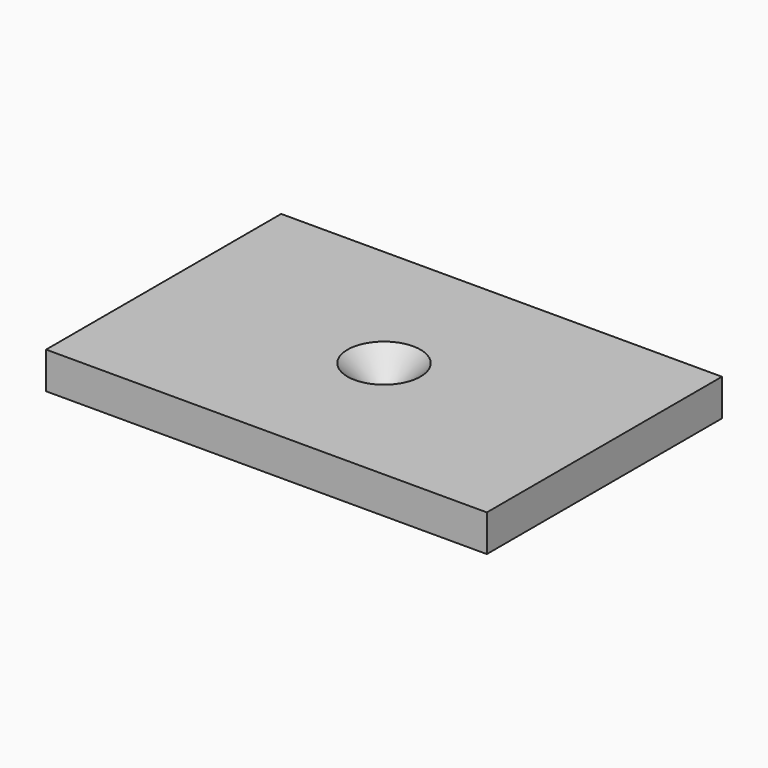
from build123d import *

# Parameters (mm, degrees)
F0_W     = 60
F0_H     = 40
F1_DEPTH = 5


with BuildPart() as f1:
    # F0 (on Top) → F1 (new body)
    with BuildSketch(Plane.XY):
        Rectangle(F0_W, F0_H)
    extrude(amount=F1_DEPTH)

    # F2 (on Front) → F3 (revolve, cut)
    with BuildSketch(Plane.XZ):
        Polygon((0, 7), (-7, 7), (0, 0.1), align=None)
    revolve(axis=Axis((0, 0, 3.55), (0, 0, 1)), mode=Mode.SUBTRACT)


solid = f1.part
